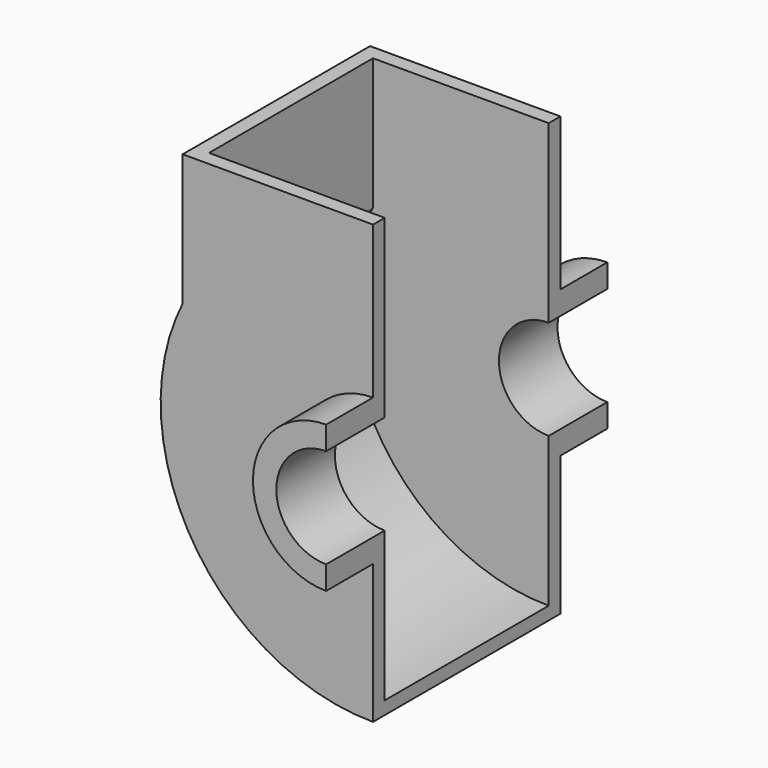
from build123d import *

# Parameters (mm, degrees)
F1_DEPTH = 20
F3_DEPTH = 5
F7_DEPTH = 70


with BuildPart() as f1:
    # F0 (on Front) → F1 (new body)
    with BuildSketch(Plane.XZ):
        with BuildLine():
            ThreePointArc((0, -17), (-17, 0), (0, 17))
            Line((0, 17), (0, 25))
            ThreePointArc((0, 25), (-25, 0), (0, -25))
            Line((0, -25), (0, -17))
        make_face()
    extrude(amount=F1_DEPTH)

    # F2 (on Front) → F3 (join)
    with BuildSketch(Plane.XZ):
        with BuildLine():
            Line((0, 25), (0, 72.5))
            ThreePointArc((0, 72.5), (-38.2625900529, 61.5810376857), (-65, 32.1130814467))
            ThreePointArc((-65, 32.1130814467), (-61.5810376857, -38.2625900529), (0, -72.5))
            Line((0, -72.5), (0, -25))
            ThreePointArc((0, -25), (-25, 0), (0, 25))
        make_face()
        with BuildLine():
            ThreePointArc((-65, 32.1130814467), (-38.2625900529, 61.5810376857), (0, 72.5))
            Line((0, 72.5), (0, 77))
            Line((0, 77), (-65, 77))
            Line((-65, 77), (-65, 32.1130814467))
        make_face()
        with BuildLine():
            Line((0, 17), (0, 25))
            ThreePointArc((0, 25), (-25, 0), (0, -25))
            Line((0, -25), (0, -17))
            ThreePointArc((0, -17), (-17, 0), (0, 17))
        make_face()
    extrude(amount=-F3_DEPTH)


with BuildPart() as f5_1:
    # F5: instance of F1
    add(f1.part.mirror(Plane.XZ.offset(-40)))


with BuildPart() as f1_1:
    add(f1.part)

    add(f5_1.part)  # F7 merges F5_1
    # F6 (on face) → F7 (join, through all)
    with BuildSketch(Plane(origin=(0, 5, 0), x_dir=(-1, 0, 0), z_dir=(0, 1, 0))):
        with BuildLine():
            Line((65, 32.1130814467), (65, 77))
            Line((65, 77), (60, 77))
            Line((60, 77), (60, 32.1130814467))
            ThreePointArc((60, 32.1130814467), (58.3808649236, -34.9703390142), (0, -68.0532879441))
            Line((0, -68.0532879441), (0, -72.5))
            ThreePointArc((0, -72.5), (61.5810376857, -38.2625900529), (65, 32.1130814467))
        make_face()
    extrude(amount=F7_DEPTH)


solid = f1_1.part
